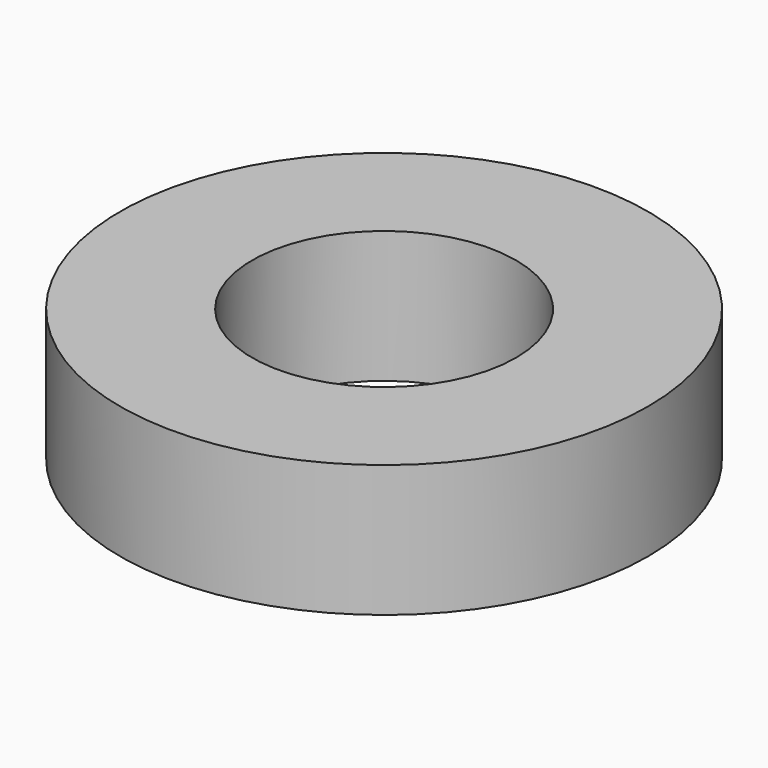
from build123d import *

# Parameters (mm, degrees)
CYLINDER355_R     = 2
CYLINDER355_DEPTH = 2
CYLINDER356_R     = 4
CYLINDER356_DEPTH = 2


with BuildPart() as cylinder355:
    # Cylinder355 → Cylinder355 (new body)
    with BuildSketch(Plane.XY):
        Circle(CYLINDER355_R)
    extrude(amount=CYLINDER355_DEPTH)


with BuildPart() as spacer4:
    # Cylinder356 → Cylinder356 (new body)
    with BuildSketch(Plane.XY):
        Circle(CYLINDER356_R)
    extrude(amount=CYLINDER356_DEPTH)

    # Cut372: cut Cylinder355
    add(cylinder355.part, mode=Mode.SUBTRACT)


with BuildPart() as spacer4_1:
    # Cut372 placement: moved
    add(spacer4.part.moved(Location((-47, 71, 57))))


solid = spacer4_1.part
